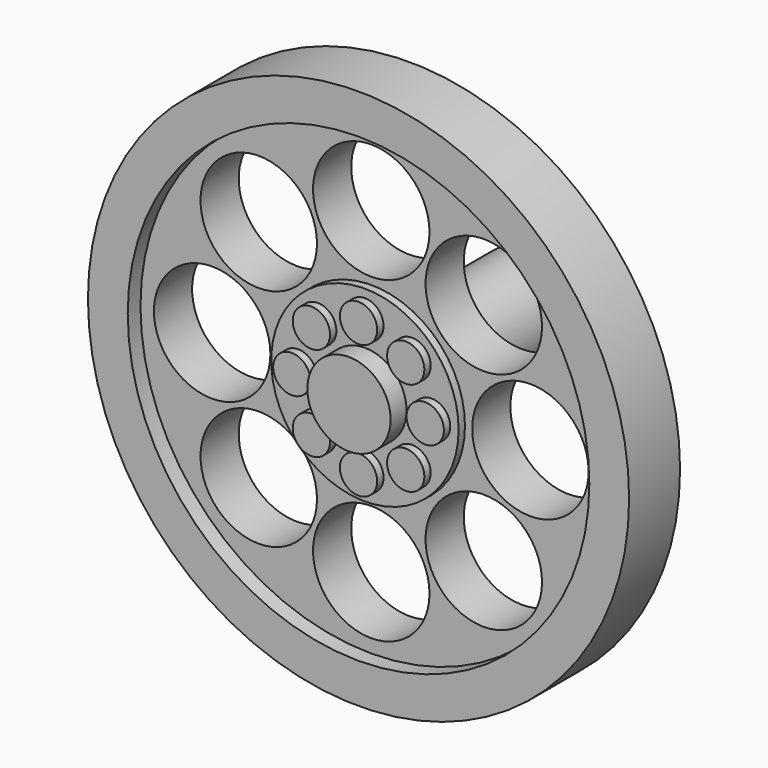
from build123d import *

# Parameters (mm, degrees)
F0_R      = 17
F0_R_2    = 14.5
F1_DEPTH  = 4
F2_R      = 14.5
F3_DEPTH  = 1
F4_R      = 3.658597032
F5_DEPTH  = 25
F6_R      = 5.8865262856
F7_DEPTH  = 0.5
F8_R      = 1.1712356188
F9_DEPTH  = 0.5
F10_R     = 2.6152305959
F11_DEPTH = 1.25
F12_R     = 3
F13_DEPTH = 9
F14_R     = 1.525
F15_DEPTH = 8.5


with BuildPart() as f1:
    # F0 (on Front) → F1 (new body)
    with BuildSketch(Plane.XZ):
        Circle(F0_R)
        Circle(F0_R_2, mode=Mode.SUBTRACT)
        Circle(F0_R_2)
    extrude(amount=F1_DEPTH)

    # F2 (on face) → F3 (cut)
    with BuildSketch(Plane.XZ.offset(4)):
        Circle(F2_R)
    extrude(amount=-F3_DEPTH, mode=Mode.SUBTRACT)

    # F4 (on face) → F5 (cut)
    with BuildSketch(Plane.XZ.offset(3)):
        with Locations((-7.0684690372, 7.0684690372)):
            Circle(F4_R)
        with Locations((-9.9963247776, 0)):
            Circle(F4_R)
        with Locations((0, 9.9963247776)):
            Circle(F4_R)
        with Locations((7.0684690372, 7.0684690372)):
            Circle(F4_R)
        with Locations((9.9963247776, 0)):
            Circle(F4_R)
        with Locations((7.0684690372, -7.0684690372)):
            Circle(F4_R)
        with Locations((0, -9.9963247776)):
            Circle(F4_R)
        with Locations((-7.0684690372, -7.0684690372)):
            Circle(F4_R)
    extrude(amount=-F5_DEPTH, mode=Mode.SUBTRACT)

    # F6 (on face) → F7 (join)
    with BuildSketch(Plane.XZ.offset(3)):
        Circle(F6_R)
    extrude(amount=F7_DEPTH)

    # F8 (on face) → F9 (join)
    with BuildSketch(Plane.XZ.offset(3.5)):
        with Locations((-2.9626692521, 2.9626692521)):
            Circle(F8_R)
        with Locations((0, 4.1898470372)):
            Circle(F8_R)
        with Locations((2.9626692521, 2.9626692521)):
            Circle(F8_R)
        with Locations((4.1898470372, 0)):
            Circle(F8_R)
        with Locations((2.9626692521, -2.9626692521)):
            Circle(F8_R)
        with Locations((0, -4.1898470372)):
            Circle(F8_R)
        with Locations((-2.9626692521, -2.9626692521)):
            Circle(F8_R)
        with Locations((-4.1898470372, 0)):
            Circle(F8_R)
    extrude(amount=F9_DEPTH)

    # F10 (on face) → F11 (join)
    with BuildSketch(Plane.XZ.offset(3.5)):
        Circle(F10_R)
    extrude(amount=F11_DEPTH)

    # F12 (on face) → F13 (join)
    with BuildSketch(Plane(origin=(0, 0, 0), x_dir=(-1, 0, 0), z_dir=(0, 1, 0))):
        Circle(F12_R)
    extrude(amount=F13_DEPTH)

    # F14 (on face) → F15 (cut)
    with BuildSketch(Plane(origin=(0, 9, 0), x_dir=(-1, 0, 0), z_dir=(0, 1, 0))):
        Circle(F14_R)
    extrude(amount=-F15_DEPTH, mode=Mode.SUBTRACT)


solid = f1.part
